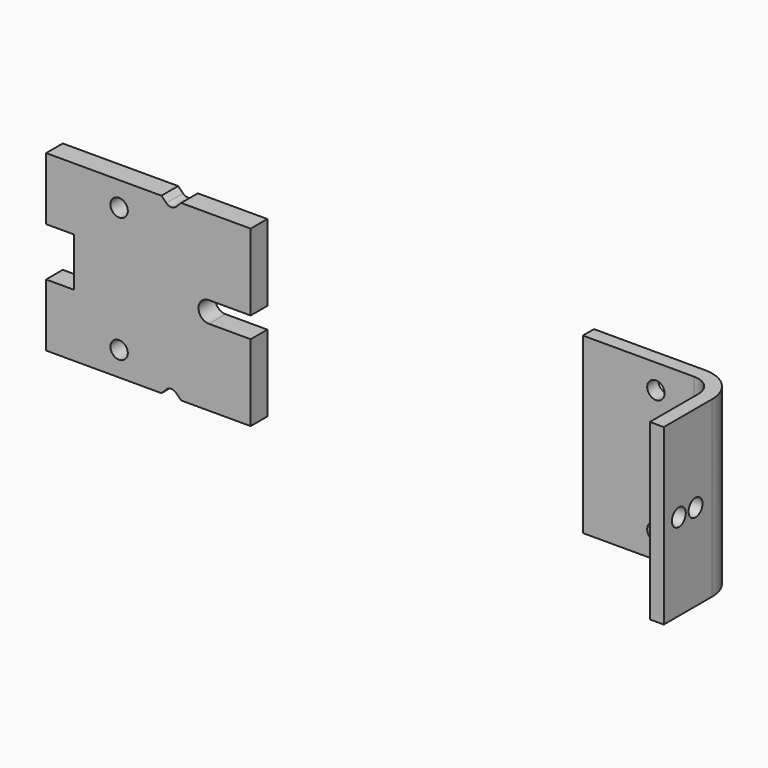
from build123d import *

# Parameters (mm, degrees)
F1_DEPTH = 25
F2_R     = 3
F3_R     = 1.25
F4_DEPTH = 25
F5_R     = 1.25
F6_DEPTH = 25
F7_R     = 5
F8_R     = 1.25
F9_DEPTH = 3


with BuildPart() as f1:
    # F0 (on Top) → F1 (new body)
    with BuildSketch(Plane.XY):
        Polygon((0, 2), (0, 0), (19, 0), (19, -11.7), (21, -11.7), (21, 0), (21, 2), align=None)
    extrude(amount=F1_DEPTH)

    # F2
    f2_edges = [f1.edges().sort_by_distance(p)[0] for p in [
        (19, 0, 12.5),
    ]]
    fillet(f2_edges, radius=F2_R)

    # F3 (on face) → F4 (cut)
    with BuildSketch(Plane.YZ.offset(21)):
        with Locations((-6, 12.5)):
            Circle(F3_R)
        with Locations((-9, 12.5)):
            Circle(F3_R)
    extrude(amount=-F4_DEPTH, mode=Mode.SUBTRACT)

    # F5 (on face) → F6 (cut)
    with BuildSketch(Plane(origin=(0, 2, 0), x_dir=(-1, 0, 0), z_dir=(0, 1, 0))):
        with Locations((-10.5, 21.5)):
            Circle(F5_R)
        with Locations((-10.5, 3.5)):
            Circle(F5_R)
    extrude(amount=-F6_DEPTH, mode=Mode.SUBTRACT)

    # F7
    f7_edges = [f1.edges().sort_by_distance(p)[0] for p in [
        (21, 2, 12.5),
    ]]
    fillet(f7_edges, radius=F7_R)


with BuildPart() as f9:
    # F8 (on Front) → F9 (new body)
    with BuildSketch(Plane.XZ):
        with BuildLine():
            Line((-74.777354, 9), (-74.777354, 0))
            Line((-74.777354, 0), (-58.191568, 0))
            Line((-58.191568, 0), (-57.484461, 0.707107))
            ThreePointArc((-57.484461, 0.707107), (-56.777354, 1), (-56.070248, 0.707107))
            Line((-56.070248, 0.707107), (-55.363141, 0))
            Line((-55.363141, 0), (-45.363141, 0))
            Line((-45.363141, 0), (-45.363141, 11))
            Line((-45.363141, 11), (-51.363141, 11))
            ThreePointArc((-51.363141, 11), (-52.863141, 12.5), (-51.363141, 14))
            Line((-51.363141, 14), (-45.363141, 14))
            Line((-45.363141, 14), (-45.363141, 25))
            Line((-45.363141, 25), (-55.363141, 25))
            Line((-55.363141, 25), (-56.070248, 24.292893))
            ThreePointArc((-56.070248, 24.292893), (-56.777354, 24), (-57.484461, 24.292893))
            Line((-57.484461, 24.292893), (-58.191568, 25))
            Line((-58.191568, 25), (-74.777354, 25))
            Line((-74.777354, 25), (-74.777354, 16))
            Line((-74.777354, 16), (-70.777354, 16))
            Line((-70.777354, 16), (-70.777354, 9))
            Line((-70.777354, 9), (-74.777354, 9))
        make_face()
        with Locations((-64.277354, 3.5)):
            Circle(F8_R, mode=Mode.SUBTRACT)
        with Locations((-64.277354, 21.5)):
            Circle(F8_R, mode=Mode.SUBTRACT)
    extrude(amount=F9_DEPTH)


solid = Compound([f1.part, f9.part])
